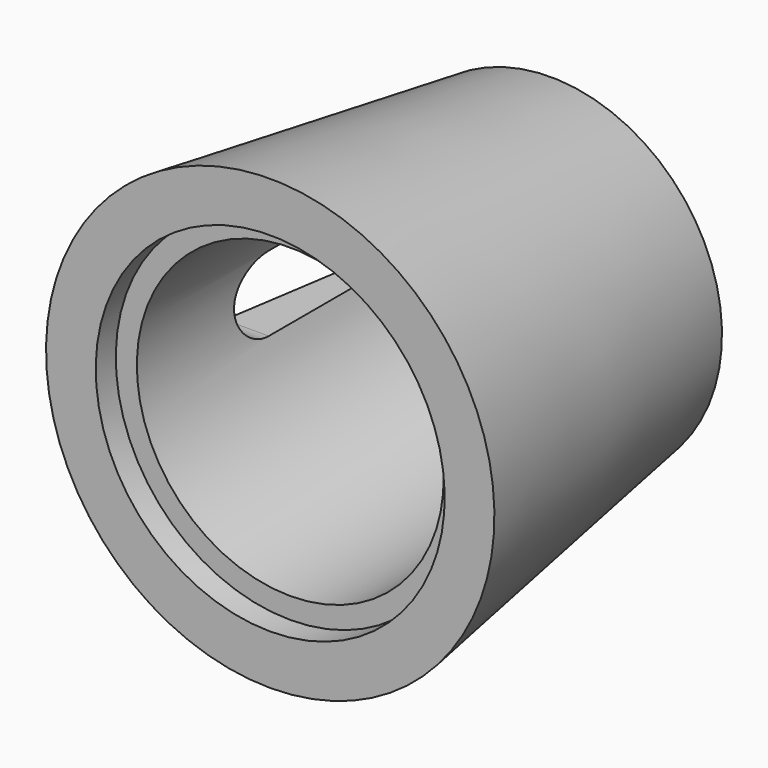
from build123d import *

# Parameters (mm, degrees)
F3_DEPTH = 17.1324643857


with BuildPart() as f1:
    # F0 (on Right) → F1 (revolve)
    with BuildSketch(Plane.YZ):
        Polygon((0, 3.97), (0, 0), (28, 4.23), (28, 5.65), (2, 5.65), (2, 3.97), align=None)
    revolve(axis=Axis((0, 14, 17.9), (0, 1, 0)))

    # F2 (on Right) → F3 (cut, up to face)
    with BuildSketch(Plane.YZ):
        with BuildLine():
            Line((28, 14.9), (28, 20.9))
            Line((28, 20.9), (14.7, 20.9))
            ThreePointArc((14.7, 20.9), (11.7, 17.9), (14.7, 14.9))
            Line((14.7, 14.9), (28, 14.9))
        make_face()
    extrude(amount=-F3_DEPTH, mode=Mode.SUBTRACT)


solid = f1.part
